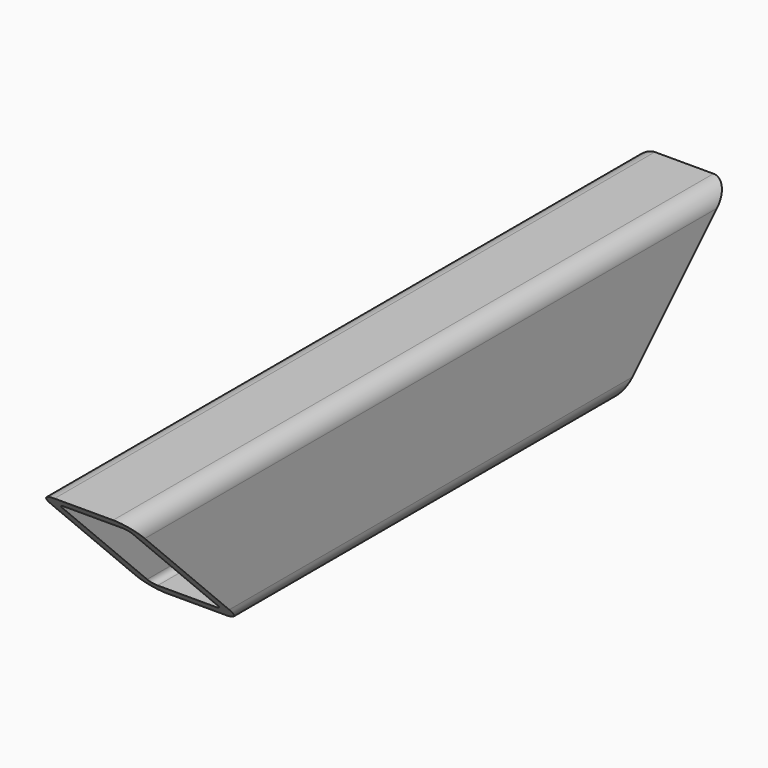
from build123d import *

# Parameters (mm, degrees)
F1_DEPTH = 406.4
F3_DEPTH = 50.8


with BuildPart() as f1:
    # F0 (on Front) → F1 (new body)
    with BuildSketch(Plane.XZ):
        with BuildLine():
            ThreePointArc((-25.4, -28.575), (-22.6101920908, -35.3101920908), (-15.875, -38.1))
            Line((-15.875, -38.1), (15.875, -38.1))
            ThreePointArc((15.875, -38.1), (22.6101920908, -35.3101920908), (25.4, -28.575))
            Line((25.4, -28.575), (25.4, 28.575))
            ThreePointArc((25.4, 28.575), (22.6101920908, 35.3101920908), (15.875, 38.1))
            Line((15.875, 38.1), (-15.875, 38.1))
            ThreePointArc((-15.875, 38.1), (-22.6101920908, 35.3101920908), (-25.4, 28.575))
            Line((-25.4, 28.575), (-25.4, -28.575))
        make_face()
        with BuildLine():
            ThreePointArc((19.0500010133, -28.575), (18.1200647468, -30.8200647468), (15.875, -31.7500010133))
            Line((15.875, -31.7500010133), (-15.875, -31.7500010133))
            ThreePointArc((-15.875, -31.7500010133), (-18.1200647468, -30.8200647468), (-19.0500010133, -28.575))
            Line((-19.0500010133, -28.575), (-19.0500010133, 28.575))
            ThreePointArc((-19.0500010133, 28.575), (-18.1200647468, 30.8200647468), (-15.875, 31.7500010133))
            Line((-15.875, 31.7500010133), (15.875, 31.7500010133))
            ThreePointArc((15.875, 31.7500010133), (18.1200647468, 30.8200647468), (19.0500010133, 28.575))
            Line((19.0500010133, 28.575), (19.0500010133, -28.575))
        make_face(mode=Mode.SUBTRACT)
    extrude(amount=F1_DEPTH)

    # F2 (on Right) → F3 (cut, symmetric)
    with BuildSketch(Plane.YZ):
        Polygon((0, -38.1), (0, 38.1), (-76.2, -38.1), align=None)
        Polygon((-330.2, -38.1), (-406.4, 38.1), (-406.4, -38.1), align=None)
    extrude(amount=F3_DEPTH, both=True, mode=Mode.SUBTRACT)


with BuildPart() as f4_1:
    # F4: copy of F1
    add(f1.part)


solid = f1.part
